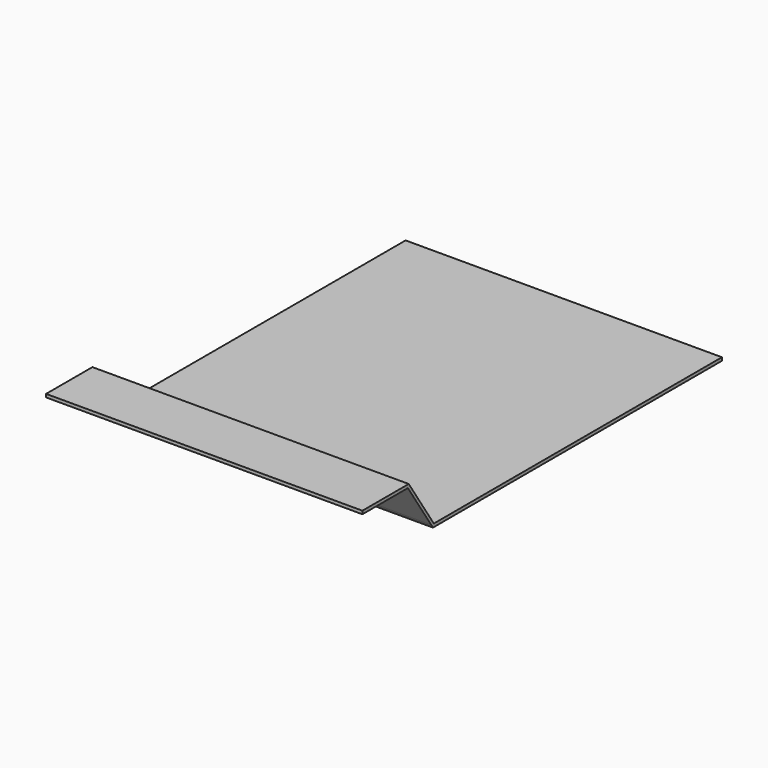
from build123d import *

# Parameters (mm, degrees)
F1_DEPTH = 100


with BuildPart() as f1:
    # F0 (on Right) → F1 (new body)
    with BuildSketch(Plane.YZ):
        Polygon((75, 0.5), (-38.848786, 0.5), (-48.764013, 15.543181), (-67.072637, 15.543181), (-67.072637, 14.543181), (-49.104895, 14.543181), (-39.848786, 0.5), (-39.189668, -0.5), (75, -0.5), align=None)
    extrude(amount=F1_DEPTH)


solid = f1.part
